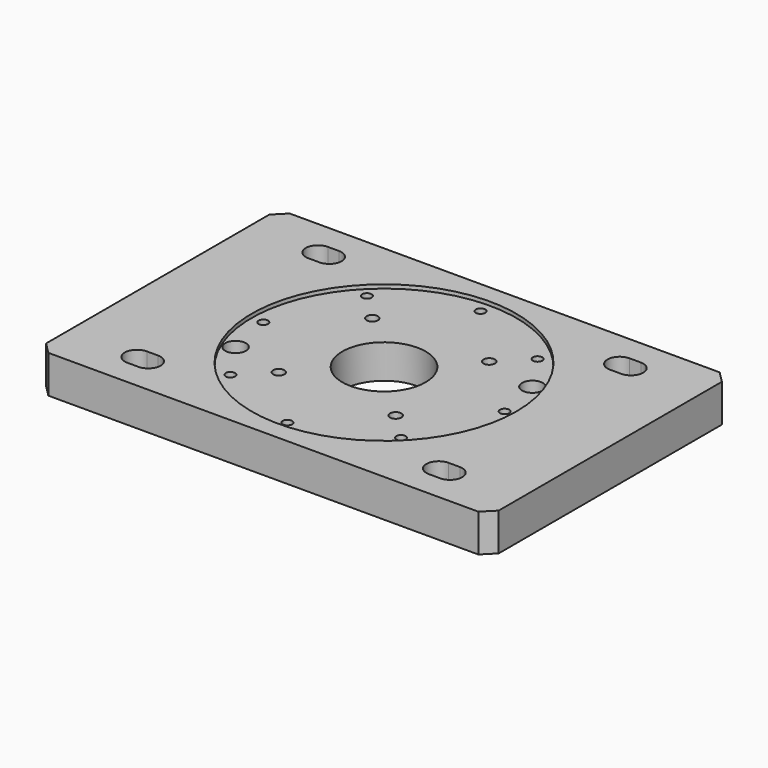
from build123d import *

# Parameters (mm, degrees)
SKETCH003_W     = 120
SKETCH003_H     = 80
PAD_DEPTH       = 10
SKETCH004_R     = 1.25
POCKET_DEPTH    = 10.001
SKETCH006_R     = 11.05
POCKET002_DEPTH = 10.001
CHAMFER_SIZE    = 3
SKETCH010_R     = 11.015
SKETCH010_R_2   = 1.5
POCKET006_DEPTH = 10.001
SKETCH011_R     = 2.75
POCKET007_DEPTH = 6
SKETCH012_R     = 35.1
POCKET008_DEPTH = 1
POCKET009_DEPTH = 10.001


with BuildPart() as part:
    # Sketch003 → Pad (new body)
    with BuildSketch(Plane.XY):
        Rectangle(SKETCH003_W, SKETCH003_H)
    extrude(amount=-PAD_DEPTH)

    # Sketch004 (on Face5 of Pad) → Pocket (cut, through all)
    with BuildSketch(Plane.XY):
        with Locations((-22.627417, 22.627417)):
            Circle(SKETCH004_R)
        with Locations((0, 32)):
            Circle(SKETCH004_R)
        with Locations((22.627417, 22.627417)):
            Circle(SKETCH004_R)
        with Locations((32, 0)):
            Circle(SKETCH004_R)
        with Locations((22.627417, -22.627417)):
            Circle(SKETCH004_R)
        with Locations((0, -32)):
            Circle(SKETCH004_R)
        with Locations((-22.627417, -22.627417)):
            Circle(SKETCH004_R)
        with Locations((-32, 0)):
            Circle(SKETCH004_R)
    extrude(amount=-POCKET_DEPTH, mode=Mode.SUBTRACT)

    # Sketch006 → Pocket002 (cut, through all)
    with BuildSketch(Plane.XY):
        Circle(SKETCH006_R)
    extrude(amount=-POCKET002_DEPTH, mode=Mode.SUBTRACT)

    # Chamfer
    chamfer_edges = [part.edges().sort_by_distance(p)[0] for p in [
        (60, -40, -5),
        (60, 40, -5),
        (-60, 40, -5),
        (-60, -40, -5),
    ]]
    chamfer(chamfer_edges, length=CHAMFER_SIZE)

    # Sketch010 (on Face5 of Pad) → Pocket006 (cut, through all)
    with BuildSketch(Plane.XY):
        Circle(SKETCH010_R)
        with Locations((-15.5, 15.5)):
            Circle(SKETCH010_R_2)
        with Locations((15.5, 15.5)):
            Circle(SKETCH010_R_2)
        with Locations((15.5, -15.5)):
            Circle(SKETCH010_R_2)
        with Locations((-15.5, -15.5)):
            Circle(SKETCH010_R_2)
    extrude(amount=-POCKET006_DEPTH, mode=Mode.SUBTRACT)

    # Sketch011 (on Face4 of Pocket) → Pocket007 (cut)
    with BuildSketch(Plane.XY):
        with Locations((-29.564145, -12.24587)):
            Circle(SKETCH011_R)
        with Locations((29.564145, 12.24587)):
            Circle(SKETCH011_R)
    extrude(amount=-POCKET007_DEPTH, mode=Mode.SUBTRACT)

    # Sketch012 (on Face4 of Pocket002) → Pocket008 (cut)
    with BuildSketch(Plane.XY):
        Circle(SKETCH012_R)
    extrude(amount=-POCKET008_DEPTH, mode=Mode.SUBTRACT)

    # Sketch013 (on Face2 of Pocket008) → Pocket009 (cut, through all)
    with BuildSketch(Plane.XY):
        with BuildLine():
            ThreePointArc((-41.5, 33.25), (-44.75, 30), (-41.5, 26.75))
            Line((-41.5, 26.75), (-38.5, 26.75))
            ThreePointArc((-38.5, 26.75), (-35.25, 30), (-38.5, 33.25))
            Line((-38.5, 33.25), (-41.5, 33.25))
        make_face()
        with BuildLine():
            ThreePointArc((38.5, 33.25), (35.25, 30), (38.5, 26.75))
            Line((38.5, 26.75), (41.5, 26.75))
            ThreePointArc((41.5, 26.75), (44.75, 30), (41.5, 33.25))
            Line((41.5, 33.25), (38.5, 33.25))
        make_face()
        with BuildLine():
            ThreePointArc((-41.5, -26.75), (-44.75, -30), (-41.5, -33.25))
            Line((-41.5, -33.25), (-38.5, -33.25))
            ThreePointArc((-38.5, -33.25), (-35.25, -30), (-38.5, -26.75))
            Line((-38.5, -26.75), (-41.5, -26.75))
        make_face()
        with BuildLine():
            ThreePointArc((38.5, -26.75), (35.25, -30), (38.5, -33.25))
            Line((38.5, -33.25), (41.5, -33.25))
            ThreePointArc((41.5, -33.25), (44.75, -30), (41.5, -26.75))
            Line((41.5, -26.75), (38.5, -26.75))
        make_face()
    extrude(amount=-POCKET009_DEPTH, mode=Mode.SUBTRACT)


solid = part.part
